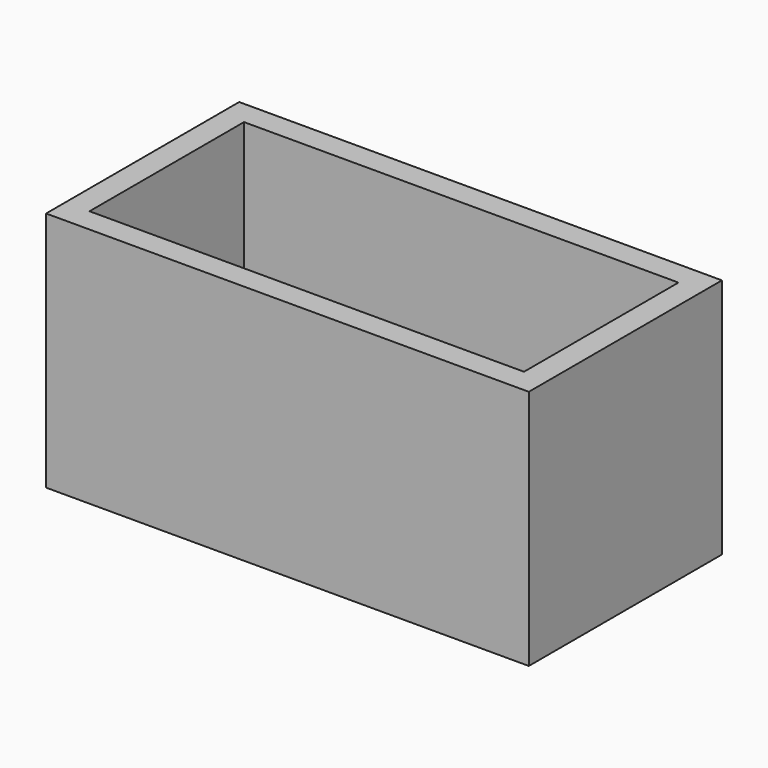
from build123d import *

# Parameters (mm, degrees)
F0_W     = 254
F0_H     = 127
F1_DEPTH = 63.5
F2_T     = -12.7


with BuildPart() as f1:
    # F0 (on Top) → F1 (new body, symmetric)
    with BuildSketch(Plane.XY):
        Rectangle(F0_W, F0_H)
    extrude(amount=F1_DEPTH, both=True)

    # F2
    f2_openings = [f1.faces().sort_by_distance(p)[0] for p in [
        (0, 0, 63.5),
    ]]
    offset(amount=F2_T, openings=f2_openings)


solid = f1.part
